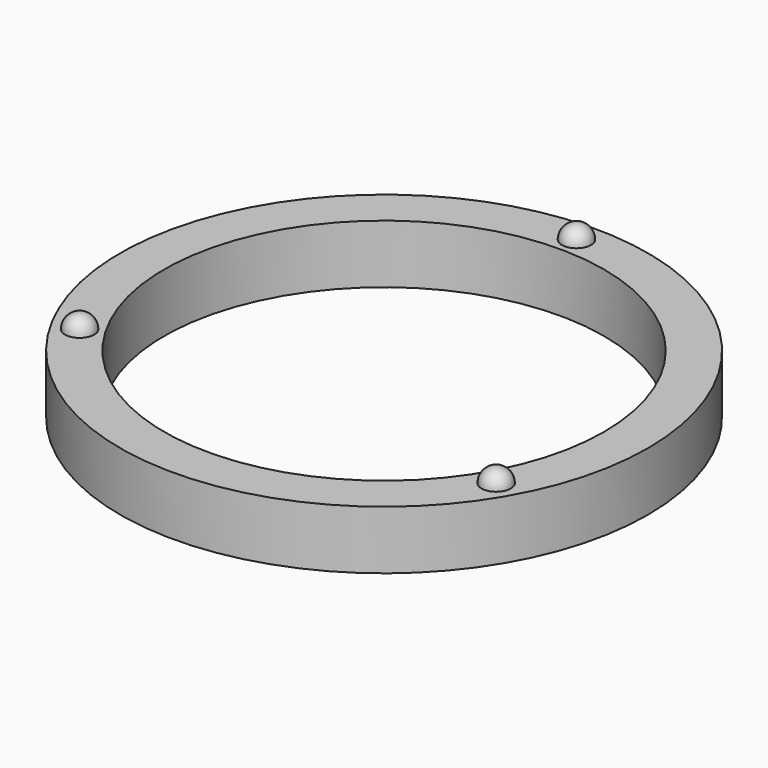
from build123d import *

# Parameters (mm, degrees)
F0_R     = 90
F0_R_2   = 75
F1_DEPTH = 20


with BuildPart() as f1:
    # F0 (on Top) → F1 (new body)
    with BuildSketch(Plane.XY):
        Circle(F0_R)
        Circle(F0_R_2, mode=Mode.SUBTRACT)
    extrude(amount=F1_DEPTH)

    # F2 (on face) → F3 (revolve)
    with BuildSketch(Plane.XY.offset(20)):
        with BuildLine():
            Line((-75.3442101292, -43.5), (-66.6839560914, -38.5))
            ThreePointArc((-66.6839560914, -38.5), (-73.5140831103, -36.6698729811), (-75.3442101292, -43.5))
        make_face()
    revolve(axis=Axis((-77.9422863406, -45, 20), (0.8660254038, 0.5, 0)))

    # F4 (on face) → F5 (revolve)
    with BuildSketch(Plane.XY.offset(20)):
        with BuildLine():
            Line((66.6839560914, -38.5), (75.3442101292, -43.5))
            ThreePointArc((75.3442101292, -43.5), (73.5140831103, -36.6698729811), (66.6839560914, -38.5))
        make_face()
    revolve(axis=Axis((77.9422863406, -45, 20), (-0.8660254038, 0.5, 0)))

    # F6 (on face) → F7 (revolve)
    with BuildSketch(Plane.XY.offset(20)):
        with BuildLine():
            Line((0, 77), (0, 87))
            ThreePointArc((0, 87), (-5, 82), (0, 77))
        make_face()
    revolve(axis=Axis((0, 90, 20), (0, -1, 0)))


solid = f1.part
